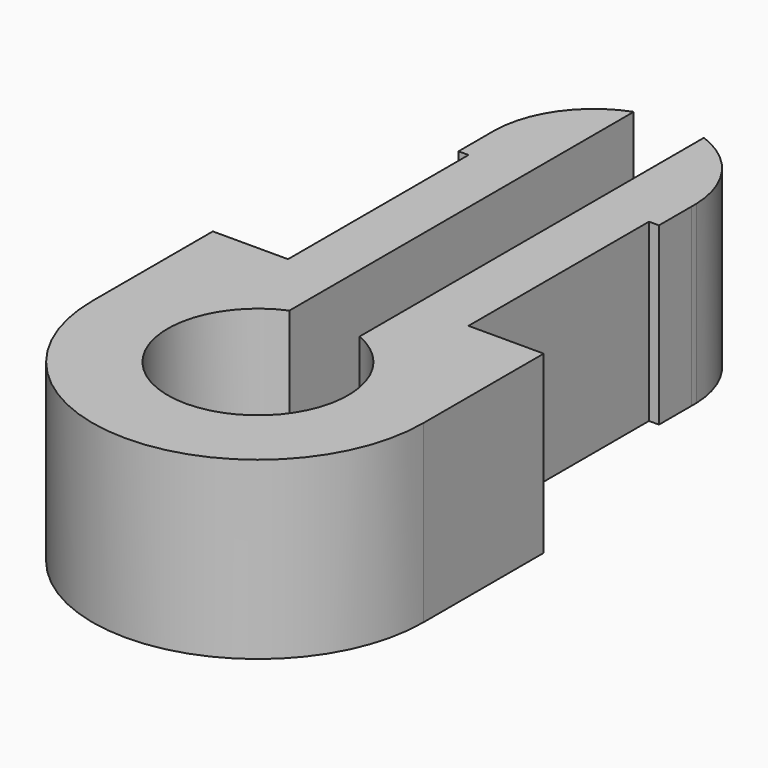
from build123d import *

# Parameters (mm, degrees)
F1_DEPTH = 3.5


with BuildPart() as f1:
    # F0 (on Top) → F1 (new body)
    with BuildSketch(Plane.XY):
        with BuildLine():
            ThreePointArc((0.7, 1.658312), (0, -1.8), (-0.7, 1.658312))
            Line((-0.7, 1.658312), (-0.7, 10.245279))
            ThreePointArc((-0.7, 10.245279), (-1.63423, 9.524729), (-1.999757, 8.402958))
            Line((-1.999757, 8.402958), (-1.999757, 8.340602))
            Line((-1.999757, 8.340602), (-1.999757, 7.5))
            Line((-1.999757, 7.5), (-1.8, 7.5))
            Line((-1.8, 7.5), (-1.8, 3))
            Line((-1.8, 3), (-3.3, 3))
            Line((-3.3, 3), (-3.3, 0))
            ThreePointArc((-3.3, 0), (0, -3.3), (3.3, 0))
            Line((3.3, 0), (3.3, 3))
            Line((3.3, 3), (1.8, 3))
            Line((1.8, 3), (1.8, 7.5))
            Line((1.8, 7.5), (1.999125, 7.5))
            Line((1.999125, 7.5), (1.999125, 8.312613))
            Line((1.999125, 8.312613), (1.999125, 8.430947))
            ThreePointArc((1.999125, 8.430947), (1.626121, 9.536138), (0.7, 10.245279))
            Line((0.7, 10.245279), (0.7, 1.658312))
        make_face()
        with BuildLine():
            Line((-1.999757, 8.340602), (-1.999757, 8.402958))
            ThreePointArc((-1.999757, 8.402958), (-2, 8.37178), (-1.999757, 8.340602))
        make_face()
        with BuildLine():
            ThreePointArc((1.999125, 8.312613), (2, 8.37178), (1.999125, 8.430947))
            Line((1.999125, 8.430947), (1.999125, 8.312613))
        make_face()
    extrude(amount=F1_DEPTH)


solid = f1.part
